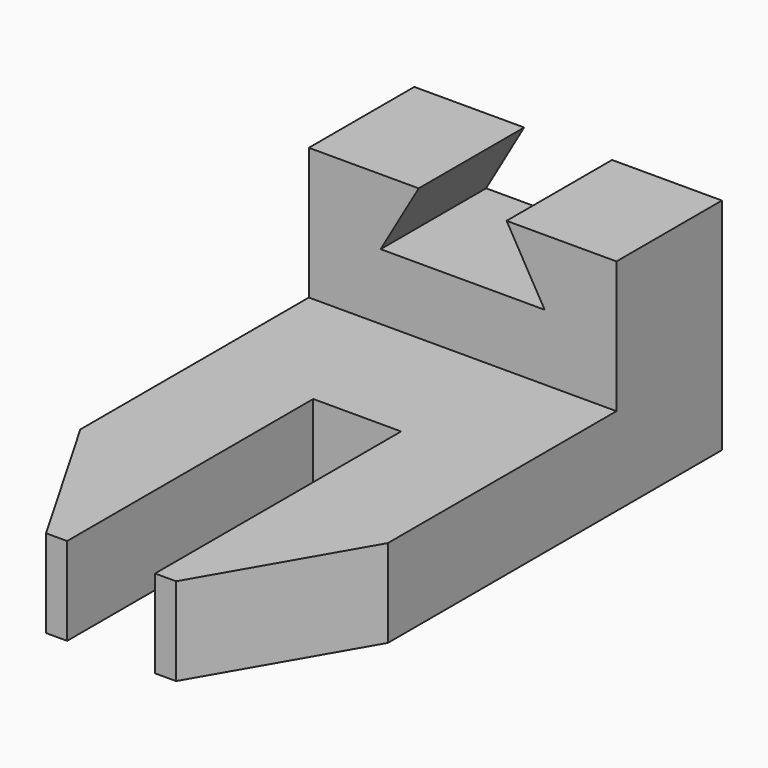
from build123d import *

# Parameters (mm, degrees)
PAD_DEPTH    = 20
PAD001_DEPTH = 30


with BuildPart() as pad:
    # Sketch → Pad (new body)
    with BuildSketch(Plane.XY):
        Polygon((-35, -30), (35, -30), (35, -95), (14.792741, -130), (10, -130), (10, -60), (-10, -60), (-10, -130), (-14.792741, -130), (-35, -95), align=None)
    extrude(amount=PAD_DEPTH)


with BuildPart() as fusion:
    # Sketch001 → Pad001 (new body)
    with BuildSketch(Plane.XZ):
        Polygon((-35, 0), (35, 0), (35, 50), (10, 50), (18.660254, 35), (-18.660254, 35), (-10, 50), (-35, 50), align=None)
    extrude(amount=PAD001_DEPTH)

    # Fusion: union Pad
    add(pad.part)


solid = fusion.part
